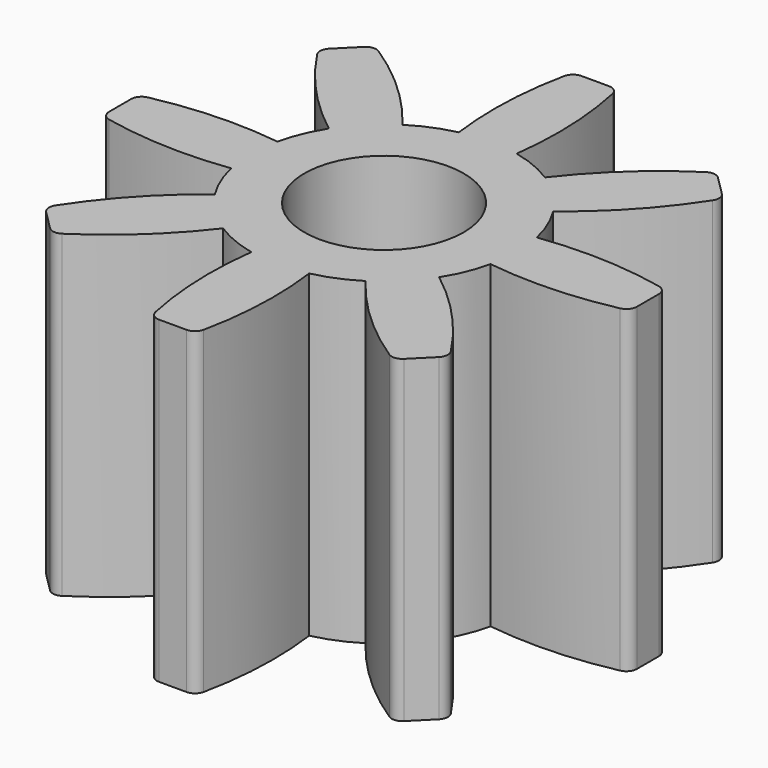
from build123d import *

# Parameters (mm, degrees)
F0_R     = 1.5
F1_DEPTH = 6


with BuildPart() as f1:
    # F0 (on Top) → F1 (new body)
    with BuildSketch(Plane.XY):
        with BuildLine():
            ThreePointArc((1.340637, 2.110141), (0.956709, 2.309699), (0.544121, 2.440068))
            ThreePointArc((0.544121, 2.440068), (0.599298, 3.627163), (0.453396, 4.80655))
            ThreePointArc((0.453396, 4.80655), (0.383688, 4.920608), (0.257701, 4.965279))
            Line((0.257701, 4.965279), (-0.257701, 4.965279))
            ThreePointArc((-0.257701, 4.965279), (-0.383688, 4.920608), (-0.453396, 4.80655))
            ThreePointArc((-0.453396, 4.80655), (-0.599298, 3.627163), (-0.544121, 2.440068))
            ThreePointArc((-0.544121, 2.440068), (-0.956709, 2.309699), (-1.340637, 2.110141))
            ThreePointArc((-1.340637, 2.110141), (-2.141024, 2.98856), (-3.078145, 3.719344))
            ThreePointArc((-3.078145, 3.719344), (-3.208087, 3.750704), (-3.32876, 3.693204))
            Line((-3.32876, 3.693204), (-3.693204, 3.32876))
            ThreePointArc((-3.693204, 3.32876), (-3.750704, 3.208087), (-3.719344, 3.078145))
            ThreePointArc((-3.719344, 3.078145), (-2.98856, 2.141024), (-2.110141, 1.340637))
            ThreePointArc((-2.110141, 1.340637), (-2.309699, 0.956709), (-2.440068, 0.544121))
            ThreePointArc((-2.440068, 0.544121), (-3.627163, 0.599298), (-4.80655, 0.453396))
            ThreePointArc((-4.80655, 0.453396), (-4.920608, 0.383688), (-4.965279, 0.257701))
            Line((-4.965279, 0.257701), (-4.965279, -0.257701))
            ThreePointArc((-4.965279, -0.257701), (-4.920608, -0.383688), (-4.80655, -0.453396))
            ThreePointArc((-4.80655, -0.453396), (-3.627163, -0.599298), (-2.440068, -0.544121))
            ThreePointArc((-2.440068, -0.544121), (-2.309699, -0.956709), (-2.110141, -1.340637))
            ThreePointArc((-2.110141, -1.340637), (-2.98856, -2.141024), (-3.719344, -3.078145))
            ThreePointArc((-3.719344, -3.078145), (-3.750704, -3.208087), (-3.693204, -3.32876))
            Line((-3.693204, -3.32876), (-3.32876, -3.693204))
            ThreePointArc((-3.32876, -3.693204), (-3.208087, -3.750704), (-3.078145, -3.719344))
            ThreePointArc((-3.078145, -3.719344), (-2.141024, -2.98856), (-1.340637, -2.110141))
            ThreePointArc((-1.340637, -2.110141), (-0.956709, -2.309699), (-0.544121, -2.440068))
            ThreePointArc((-0.544121, -2.440068), (-0.599298, -3.627163), (-0.453396, -4.80655))
            ThreePointArc((-0.453396, -4.80655), (-0.383688, -4.920608), (-0.257701, -4.965279))
            Line((-0.257701, -4.965279), (0.257701, -4.965279))
            ThreePointArc((0.257701, -4.965279), (0.383688, -4.920608), (0.453396, -4.80655))
            ThreePointArc((0.453396, -4.80655), (0.599298, -3.627163), (0.544121, -2.440068))
            ThreePointArc((0.544121, -2.440068), (0.956709, -2.309699), (1.340637, -2.110141))
            ThreePointArc((1.340637, -2.110141), (2.141024, -2.98856), (3.078145, -3.719344))
            ThreePointArc((3.078145, -3.719344), (3.208087, -3.750704), (3.32876, -3.693204))
            Line((3.32876, -3.693204), (3.693204, -3.32876))
            ThreePointArc((3.693204, -3.32876), (3.750704, -3.208087), (3.719344, -3.078145))
            ThreePointArc((3.719344, -3.078145), (2.98856, -2.141024), (2.110141, -1.340637))
            ThreePointArc((2.110141, -1.340637), (2.309699, -0.956709), (2.440068, -0.544121))
            ThreePointArc((2.440068, -0.544121), (3.627163, -0.599298), (4.80655, -0.453396))
            ThreePointArc((4.80655, -0.453396), (4.920608, -0.383688), (4.965279, -0.257701))
            Line((4.965279, -0.257701), (4.965279, 0.257701))
            ThreePointArc((4.965279, 0.257701), (4.920608, 0.383688), (4.80655, 0.453396))
            ThreePointArc((4.80655, 0.453396), (3.627163, 0.599298), (2.440068, 0.544121))
            ThreePointArc((2.440068, 0.544121), (2.309699, 0.956709), (2.110141, 1.340637))
            ThreePointArc((2.110141, 1.340637), (2.98856, 2.141024), (3.719344, 3.078145))
            ThreePointArc((3.719344, 3.078145), (3.750704, 3.208087), (3.693204, 3.32876))
            Line((3.693204, 3.32876), (3.32876, 3.693204))
            ThreePointArc((3.32876, 3.693204), (3.208087, 3.750704), (3.078145, 3.719344))
            ThreePointArc((3.078145, 3.719344), (2.141024, 2.98856), (1.340637, 2.110141))
        make_face()
        Circle(F0_R, mode=Mode.SUBTRACT)
    extrude(amount=F1_DEPTH)


solid = f1.part
